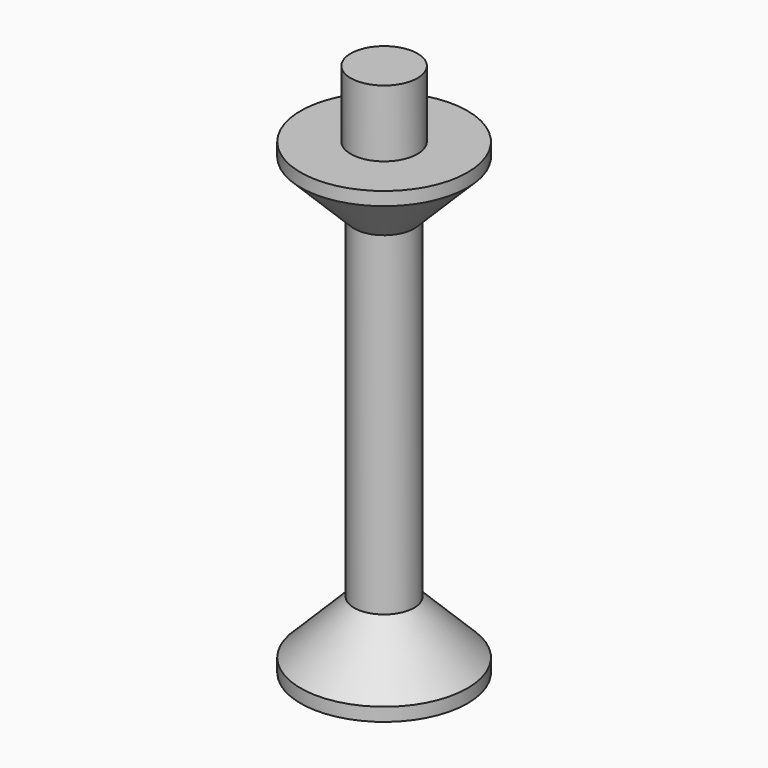
from build123d import *

# Parameters (mm, degrees)
F0_R      = 12.5
F1_DEPTH  = 2
F1_FACE_R = 12.5
F2_DEPTH  = 8
F2_TAPER  = 45
F3_DEPTH  = 25
F5_R      = 5
F6_DEPTH  = 10


with BuildPart() as f1:
    # F0 (on Top) → F1 (new body)
    with BuildSketch(Plane.XY):
        Circle(F0_R)
        Circle(F0_R)
    extrude(amount=F1_DEPTH)

    # F1_face (on face) → F2 (join)
    with BuildSketch(Plane.XY.offset(2)):
        Circle(F1_FACE_R)
    extrude(amount=F2_DEPTH, taper=F2_TAPER)

    # F3 (add): a face of the model
    f3_faces = [f1.faces().sort_by_distance(p)[0] for p in [
        (0, 0, 10),
    ]]
    extrude(f3_faces, amount=F3_DEPTH)

    # F4: F1 across face


with BuildPart() as f1_1:
    add(f1.part)
    add(f1.part.mirror(Plane.XY.offset(35)))

    # F5 (on face) → F6 (join)
    with BuildSketch(Plane.XY.offset(70)):
        Circle(F5_R)
        Circle(F5_R)
    extrude(amount=F6_DEPTH)


solid = f1_1.part
